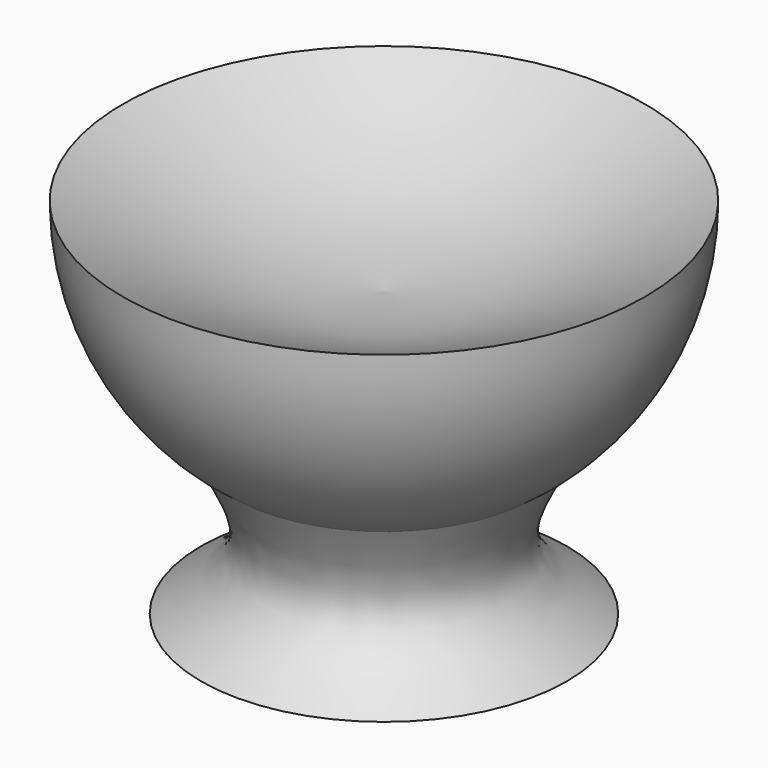
from build123d import *


with BuildPart() as f1:
    # F0 (on Front) → F1 (revolve)
    with BuildSketch(Plane.XZ):
        with BuildLine():
            ThreePointArc((9.6736738984, -13.7638404857), (14.9292723569, -7.7550047392), (16.8232955039, 0))
            add(Edge.make_bspline(
                [(16.8232955039, 0), (13.5640131698, -1.626504618), (7.5603393855, -4.622563914), (2.3717850992, -4.9956594374), (0, -5.1662083715)],
                knots=[0, 0, 0, 0, 0.5428813175, 1, 1, 1, 1], degree=3))
            Line((0, -5.1662083715), (0, -16.8232955039))
            Line((0, -16.8232955039), (0, -23.4466399997))
            Line((0, -23.4466399997), (11.7895537987, -23.4466399997))
            add(Edge.make_bspline(
                [(11.7895537987, -23.4466399997), (9.991812127, -22.2489497045), (6.3362501785, -19.8135998724), (8.5486578914, -15.8020589362), (9.6736738984, -13.7638404857)],
                knots=[0, 0, 0, 0, 0.4917498612, 1, 1, 1, 1], degree=3))
        make_face()
    revolve(axis=Axis((0, 0, -20.1349677518), (0, 0, -1)))


solid = f1.part
